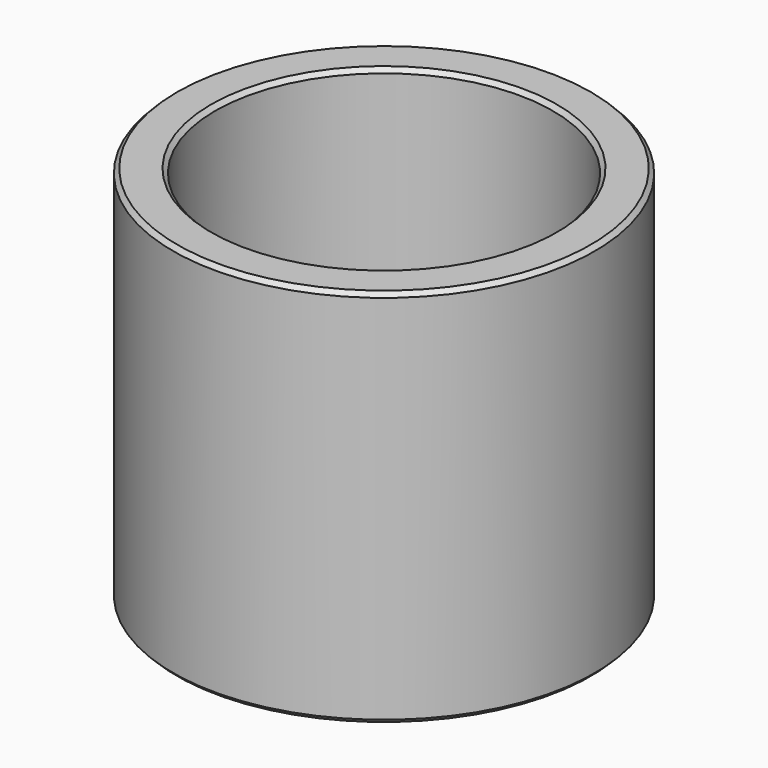
from build123d import *

# Parameters (mm, degrees)
F2_R    = 1
F3_SIZE = 0.5


with BuildPart() as f1:
    # F0 (on Front) → F1 (revolve)
    with BuildSketch(Plane.XZ):
        Polygon((-5, -10), (0, -10), (0, 6.47346), (-20, 10), (-20, 45), (-25, 45), (-25, 0), (-5, 0), align=None)
    revolve(axis=Axis((0, 0, -1.76327), (0, 0, -1)))

    # F2
    f2_edges = [f1.edges().sort_by_distance(p)[0] for p in [
        (5, 0, 0),
    ]]
    fillet(f2_edges, radius=F2_R)

    # F3
    f3_edges = [f1.edges().sort_by_distance(p)[0] for p in [
        (5, 0, -10),
        (25, 0, 0),
        (25, 0, 45),
        (20, 0, 45),
    ]]
    chamfer(f3_edges, length=F3_SIZE)


solid = f1.part
